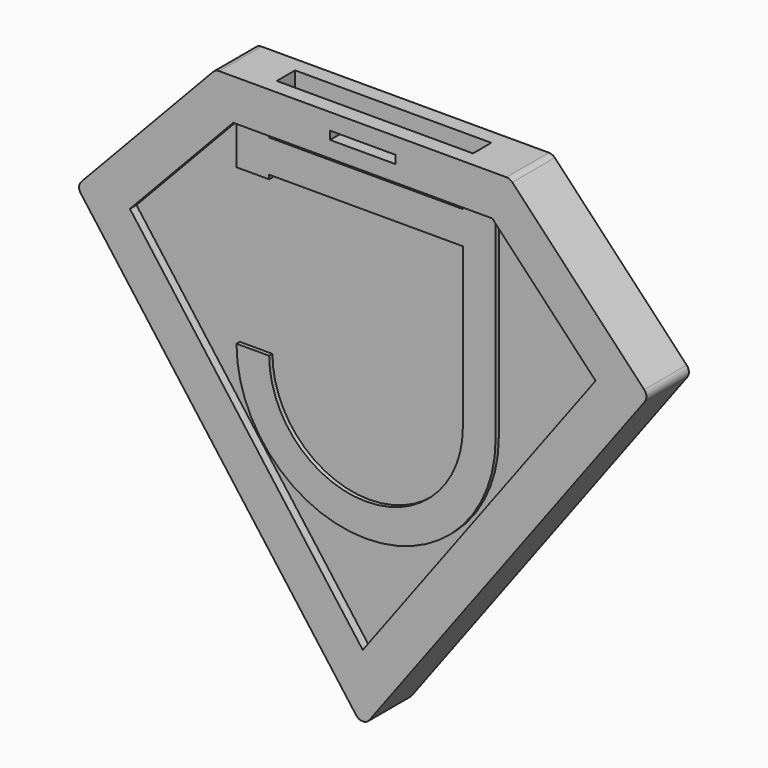
from build123d import *

# Parameters (mm, degrees)
F1_DEPTH  = 3.25
F3_DEPTH  = 1
F5_DEPTH  = 1
F7_DEPTH  = 0.5
F9_DEPTH  = 0.5
F10_W     = 24
F10_H     = 2.8
F11_DEPTH = 20
F13_DEPTH = 1.4
F14_W     = 8
F14_H     = 1
F15_DEPTH = 25
F16_R     = 1


with BuildPart() as f1:
    # F0 (on Front) → F1 (new body, symmetric)
    with BuildSketch(Plane.XZ):
        Polygon((18, 18), (0, 18), (-18, 18), (-35, 0), (0, -47), (35, 0), align=None)
    extrude(amount=F1_DEPTH, both=True)

    # F2 (on face) → F3 (cut)
    with BuildSketch(Plane.XZ.offset(3.25)):
        Polygon((15.844768, 13), (-15.844768, 13), (-28.482277, -0.380893), (0, -38.628523), (28.482278, -0.380893), align=None)
    extrude(amount=-F3_DEPTH, mode=Mode.SUBTRACT)

    # F4 (on face) → F5 (cut)
    with BuildSketch(Plane(origin=(0, 3.25, 0), x_dir=(-1, 0, 0), z_dir=(0, 1, 0))):
        Polygon((28.482278, -0.380893), (15.844768, 13), (-15.844767, 13), (-28.482277, -0.380893), (0, -38.628522), align=None)
    extrude(amount=-F5_DEPTH, mode=Mode.SUBTRACT)

    # F6 (on face) → F7 (join)
    with BuildSketch(Plane(origin=(0, 2.25, 0), x_dir=(-1, 0, 0), z_dir=(0, 1, 0))):
        with BuildLine():
            Line((15.844768, 13), (11.844768, 13))
            Line((11.844768, 13), (11.844768, 12.5))
            Line((11.844768, 12.5), (-11.844768, 12.5))
            Line((-11.844768, 12.5), (-11.844768, 13))
            Line((-11.844768, 13), (-15.844768, 13))
            Line((-15.844768, 13), (-15.844768, 8))
            Line((-15.844768, 8), (-11.844768, 8))
            Line((-11.844768, 8), (-11.844768, 8.5))
            Line((-11.844768, 8.5), (11.844768, 8.5))
            Line((11.844768, 8.5), (11.844768, -11))
            ThreePointArc((11.844768, -11), (0, -22.844768), (-11.844768, -11))
            Line((-11.844768, -11), (-15.844768, -11))
            ThreePointArc((-15.844768, -11), (0, -26.844768), (15.844768, -11))
            Line((15.844768, -11), (15.844768, 13))
        make_face()
    extrude(amount=F7_DEPTH)

    # F8 (on face) → F9 (join)
    with BuildSketch(Plane.XZ.offset(2.25)):
        with BuildLine():
            Line((15.844768, 13), (11.844768, 13))
            Line((11.844768, 13), (11.844768, 12.500001))
            Line((11.844768, 12.500001), (-11.844767, 12.500001))
            Line((-11.844767, 12.500001), (-11.844767, 13))
            Line((-11.844767, 13), (-15.844767, 13))
            Line((-15.844767, 13), (-15.844767, 8.000001))
            Line((-15.844767, 8.000001), (-11.844767, 8.000001))
            Line((-11.844767, 8.000001), (-11.844767, 8.500001))
            Line((-11.844767, 8.500001), (11.844768, 8.500001))
            Line((11.844768, 8.500001), (11.844768, -11))
            ThreePointArc((11.844768, -11), (0, -22.844767), (-11.844767, -11))
            Line((-11.844767, -11), (-15.844767, -11))
            ThreePointArc((-15.844767, -11), (0, -26.844767), (15.844768, -11))
            Line((15.844768, -11), (15.844768, 13))
        make_face()
    extrude(amount=F9_DEPTH)

    # F10 (on face) → F11 (cut)
    with BuildSketch(Plane.XY.offset(18)):
        Rectangle(F10_W, F10_H)
    extrude(amount=-F11_DEPTH, mode=Mode.SUBTRACT)

    # F12 (on Front) → F13 (cut, symmetric)
    with BuildSketch(Plane.XZ):
        with BuildLine():
            Line((12, -2), (-12, -2))
            ThreePointArc((-12, -2), (0, -14), (12, -2))
        make_face()
    extrude(amount=F13_DEPTH, both=True, mode=Mode.SUBTRACT)

    # F14 (on face) → F15 (cut)
    with BuildSketch(Plane.XZ.offset(3.25)):
        with Locations((0, 15.5)):
            Rectangle(F14_W, F14_H)
    extrude(amount=-F15_DEPTH, mode=Mode.SUBTRACT)

    # F16
    f16_edges = [f1.edges().sort_by_distance(p)[0] for p in [
        (0, 0, -47),
        (35, 0, 0),
        (-35, 0, 0),
        (-18, 0, 18),
        (18, 0, 18),
    ]]
    fillet(f16_edges, radius=F16_R)


solid = f1.part
